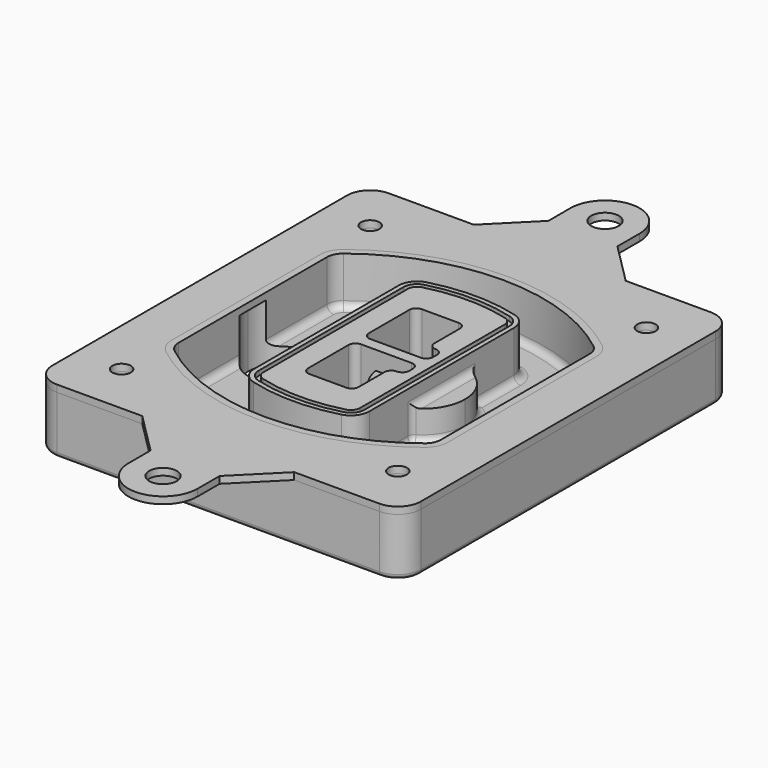
from build123d import *

# Parameters (mm, degrees)
F0_R      = 4
F1_DEPTH  = 25
F2_DEPTH  = 3
F3_DEPTH  = 18
F5_DEPTH  = 21
F6_DEPTH  = 2
F8_DEPTH  = 20
F9_DEPTH  = 16
F10_DEPTH = 25
F7_R      = 6
F7_R_2    = 4
F11_DEPTH = 6
F13_DEPTH = 9
F14_R     = 3
F15_R     = 2
F16_R     = 6
F16_R_2   = 4
F17_DEPTH = 3


with BuildPart() as f1:
    # F0 (on Top) → F1 (new body)
    with BuildSketch(Plane.XY):
        with BuildLine():
            ThreePointArc((14.05, 38.3825811321), (16.9789321881, 31.3115133202), (24.05, 28.3825811321))
            Line((24.05, 28.3825811321), (164.05, 28.3825811321))
            ThreePointArc((164.05, 28.3825811321), (171.1210678119, 31.3115133202), (174.05, 38.3825811321))
            Line((174.05, 38.3825811321), (174.05, 198.3825811321))
            ThreePointArc((174.05, 198.3825811321), (171.1210678119, 205.4536489439), (164.05, 208.3825811321))
            Line((164.05, 208.3825811321), (24.05, 208.3825811321))
            ThreePointArc((24.05, 208.3825811321), (16.9789321881, 205.4536489439), (14.05, 198.3825811321))
            Line((14.05, 198.3825811321), (14.05, 38.3825811321))
        make_face()
        with Locations((34.05, 50.8825811321)):
            Circle(F0_R, mode=Mode.SUBTRACT)
        with Locations((154.05, 50.8825811321)):
            Circle(F0_R, mode=Mode.SUBTRACT)
        with Locations((34.05, 185.8825811321)):
            Circle(F0_R, mode=Mode.SUBTRACT)
        with BuildLine():
            ThreePointArc((30.05, 158.6760234193), (31.4679615202, 164.8154295545), (35.4346153846, 169.7112011673))
            ThreePointArc((35.4346153846, 169.7112011673), (94.05, 189.8825811321), (152.6653846154, 169.7112011673))
            ThreePointArc((152.6653846154, 169.7112011673), (156.6320384798, 164.8154295545), (158.05, 158.6760234193))
            Line((158.05, 158.6760234193), (158.05, 78.0891388448))
            ThreePointArc((158.05, 78.0891388448), (156.6320384798, 71.9497327097), (152.6653846154, 67.0539610969))
            ThreePointArc((152.6653846154, 67.0539610969), (94.05, 46.8825811321), (35.4346153846, 67.0539610969))
            ThreePointArc((35.4346153846, 67.0539610969), (31.4679615202, 71.9497327097), (30.05, 78.0891388448))
            Line((30.05, 78.0891388448), (30.05, 158.6760234193))
        make_face(mode=Mode.SUBTRACT)
        with Locations((154.05, 185.8825811321)):
            Circle(F0_R, mode=Mode.SUBTRACT)
        with BuildLine():
            ThreePointArc((152.6653846154, 169.7112011673), (94.05, 189.8825811321), (35.4346153846, 169.7112011673))
            ThreePointArc((35.4346153846, 169.7112011673), (31.4679615202, 164.8154295545), (30.05, 158.6760234193))
            Line((30.05, 158.6760234193), (30.05, 78.0891388448))
            ThreePointArc((30.05, 78.0891388448), (31.4679615202, 71.9497327097), (35.4346153846, 67.0539610969))
            ThreePointArc((35.4346153846, 67.0539610969), (94.05, 46.8825811321), (152.6653846154, 67.0539610969))
            ThreePointArc((152.6653846154, 67.0539610969), (156.6320384798, 71.9497327097), (158.05, 78.0891388448))
            Line((158.05, 78.0891388448), (158.05, 158.6760234193))
            ThreePointArc((158.05, 158.6760234193), (156.6320384798, 164.8154295545), (152.6653846154, 169.7112011673))
        make_face()
        with BuildLine():
            Line((34.05, 78.0891388448), (34.05, 158.6760234193))
            ThreePointArc((34.05, 158.6760234193), (35.0628296573, 163.0613135158), (37.8961538462, 166.5582932393))
            ThreePointArc((37.8961538462, 166.5582932393), (94.05, 185.8825811321), (150.2038461538, 166.5582932393))
            ThreePointArc((150.2038461538, 166.5582932393), (153.0371703427, 163.0613135158), (154.05, 158.6760234193))
            Line((154.05, 158.6760234193), (154.05, 78.0891388448))
            ThreePointArc((154.05, 78.0891388448), (153.0371703427, 73.7038487483), (150.2038461538, 70.2068690248))
            ThreePointArc((150.2038461538, 70.2068690248), (94.05, 50.8825811321), (37.8961538462, 70.2068690248))
            ThreePointArc((37.8961538462, 70.2068690248), (35.0628296573, 73.7038487483), (34.05, 78.0891388448))
        make_face(mode=Mode.SUBTRACT)
        with BuildLine():
            ThreePointArc((37.8961538462, 166.5582932393), (35.0628296573, 163.0613135158), (34.05, 158.6760234193))
            Line((34.05, 158.6760234193), (34.05, 78.0891388448))
            ThreePointArc((34.05, 78.0891388448), (35.0628296573, 73.7038487483), (37.8961538462, 70.2068690248))
            ThreePointArc((37.8961538462, 70.2068690248), (94.05, 50.8825811321), (150.2038461538, 70.2068690248))
            ThreePointArc((150.2038461538, 70.2068690248), (153.0371703427, 73.7038487483), (154.05, 78.0891388448))
            Line((154.05, 78.0891388448), (154.05, 158.6760234193))
            ThreePointArc((154.05, 158.6760234193), (153.0371703427, 163.0613135158), (150.2038461538, 166.5582932393))
            ThreePointArc((150.2038461538, 166.5582932393), (94.05, 185.8825811321), (37.8961538462, 166.5582932393))
        make_face()
        with BuildLine():
            ThreePointArc((148.3576923077, 164.1936122933), (150.3410192399, 161.7457264869), (151.05, 158.6760234193))
            Line((151.05, 158.6760234193), (151.05, 78.0891388448))
            ThreePointArc((151.05, 78.0891388448), (150.3410192399, 75.0194357772), (148.3576923077, 72.5715499708))
            ThreePointArc((148.3576923077, 72.5715499708), (94.05, 53.8825811321), (39.7423076923, 72.5715499708))
            ThreePointArc((39.7423076923, 72.5715499708), (37.7589807601, 75.0194357772), (37.05, 78.0891388448))
            Line((37.05, 78.0891388448), (37.05, 158.6760234193))
            ThreePointArc((37.05, 158.6760234193), (37.7589807601, 161.7457264869), (39.7423076923, 164.1936122933))
            ThreePointArc((39.7423076923, 164.1936122933), (94.05, 182.8825811321), (148.3576923077, 164.1936122933))
        make_face(mode=Mode.SUBTRACT)
        with BuildLine():
            Line((151.05, 78.0891388448), (151.05, 158.6760234193))
            ThreePointArc((151.05, 158.6760234193), (150.3410192399, 161.7457264869), (148.3576923077, 164.1936122933))
            ThreePointArc((148.3576923077, 164.1936122933), (94.05, 182.8825811321), (39.7423076923, 164.1936122933))
            ThreePointArc((39.7423076923, 164.1936122933), (37.7589807601, 161.7457264869), (37.05, 158.6760234193))
            Line((37.05, 158.6760234193), (37.05, 78.0891388448))
            ThreePointArc((37.05, 78.0891388448), (37.7589807601, 75.0194357772), (39.7423076923, 72.5715499708))
            ThreePointArc((39.7423076923, 72.5715499708), (94.05, 53.8825811321), (148.3576923077, 72.5715499708))
            ThreePointArc((148.3576923077, 72.5715499708), (150.3410192399, 75.0194357772), (151.05, 78.0891388448))
        make_face()
    extrude(amount=-F1_DEPTH)

    # F0 (on Top) → F2 (join)
    with BuildSketch(Plane.XY):
        with BuildLine():
            ThreePointArc((37.8961538462, 166.5582932393), (35.0628296573, 163.0613135158), (34.05, 158.6760234193))
            Line((34.05, 158.6760234193), (34.05, 78.0891388448))
            ThreePointArc((34.05, 78.0891388448), (35.0628296573, 73.7038487483), (37.8961538462, 70.2068690248))
            ThreePointArc((37.8961538462, 70.2068690248), (94.05, 50.8825811321), (150.2038461538, 70.2068690248))
            ThreePointArc((150.2038461538, 70.2068690248), (153.0371703427, 73.7038487483), (154.05, 78.0891388448))
            Line((154.05, 78.0891388448), (154.05, 158.6760234193))
            ThreePointArc((154.05, 158.6760234193), (153.0371703427, 163.0613135158), (150.2038461538, 166.5582932393))
            ThreePointArc((150.2038461538, 166.5582932393), (94.05, 185.8825811321), (37.8961538462, 166.5582932393))
        make_face()
        with BuildLine():
            ThreePointArc((148.3576923077, 164.1936122933), (150.3410192399, 161.7457264869), (151.05, 158.6760234193))
            Line((151.05, 158.6760234193), (151.05, 78.0891388448))
            ThreePointArc((151.05, 78.0891388448), (150.3410192399, 75.0194357772), (148.3576923077, 72.5715499708))
            ThreePointArc((148.3576923077, 72.5715499708), (94.05, 53.8825811321), (39.7423076923, 72.5715499708))
            ThreePointArc((39.7423076923, 72.5715499708), (37.7589807601, 75.0194357772), (37.05, 78.0891388448))
            Line((37.05, 78.0891388448), (37.05, 158.6760234193))
            ThreePointArc((37.05, 158.6760234193), (37.7589807601, 161.7457264869), (39.7423076923, 164.1936122933))
            ThreePointArc((39.7423076923, 164.1936122933), (94.05, 182.8825811321), (148.3576923077, 164.1936122933))
        make_face(mode=Mode.SUBTRACT)
    extrude(amount=F2_DEPTH)

    # F0 (on Top) → F3 (cut)
    with BuildSketch(Plane.XY):
        with BuildLine():
            Line((151.05, 78.0891388448), (151.05, 158.6760234193))
            ThreePointArc((151.05, 158.6760234193), (150.3410192399, 161.7457264869), (148.3576923077, 164.1936122933))
            ThreePointArc((148.3576923077, 164.1936122933), (94.05, 182.8825811321), (39.7423076923, 164.1936122933))
            ThreePointArc((39.7423076923, 164.1936122933), (37.7589807601, 161.7457264869), (37.05, 158.6760234193))
            Line((37.05, 158.6760234193), (37.05, 78.0891388448))
            ThreePointArc((37.05, 78.0891388448), (37.7589807601, 75.0194357772), (39.7423076923, 72.5715499708))
            ThreePointArc((39.7423076923, 72.5715499708), (94.05, 53.8825811321), (148.3576923077, 72.5715499708))
            ThreePointArc((148.3576923077, 72.5715499708), (150.3410192399, 75.0194357772), (151.05, 78.0891388448))
        make_face()
    extrude(amount=-F3_DEPTH, mode=Mode.SUBTRACT)

    # F4 (on face) → F5 (join, through all)
    with BuildSketch(Plane.XY.offset(3)):
        with BuildLine():
            ThreePointArc((69.05, 79.13605345), (70.6988454002, 74.2716074128), (74.9657088123, 71.4123412437))
            ThreePointArc((74.9657088123, 71.4123412437), (94.05, 68.8825811321), (113.1342911877, 71.4123412437))
            ThreePointArc((113.1342911877, 71.4123412437), (117.4011545998, 74.2716074128), (119.05, 79.13605345))
            Line((119.05, 79.13605345), (119.05, 157.6291088141))
            ThreePointArc((119.05, 157.6291088141), (117.4011545998, 162.4935548514), (113.1342911877, 165.3528210204))
            ThreePointArc((113.1342911877, 165.3528210204), (94.05, 167.8825811321), (74.9657088123, 165.3528210204))
            ThreePointArc((74.9657088123, 165.3528210204), (70.6988454002, 162.4935548514), (69.05, 157.6291088141))
            Line((69.05, 157.6291088141), (69.05, 79.13605345))
        make_face()
        with BuildLine():
            ThreePointArc((112.6132183908, 163.4218929688), (115.8133659499, 161.2774433421), (117.05, 157.6291088141))
            Line((117.05, 157.6291088141), (117.05, 79.13605345))
            ThreePointArc((117.05, 79.13605345), (115.8133659499, 75.4877189221), (112.6132183908, 73.3432692953))
            ThreePointArc((112.6132183908, 73.3432692953), (94.05, 70.8825811321), (75.4867816092, 73.3432692953))
            ThreePointArc((75.4867816092, 73.3432692953), (72.2866340501, 75.4877189221), (71.05, 79.13605345))
            Line((71.05, 79.13605345), (71.05, 157.6291088141))
            ThreePointArc((71.05, 157.6291088141), (72.2866340501, 161.2774433421), (75.4867816092, 163.4218929688))
            ThreePointArc((75.4867816092, 163.4218929688), (94.05, 165.8825811321), (112.6132183908, 163.4218929688))
        make_face(mode=Mode.SUBTRACT)
        with BuildLine():
            Line((117.05, 79.13605345), (117.05, 157.6291088141))
            ThreePointArc((117.05, 157.6291088141), (115.8133659499, 161.2774433421), (112.6132183908, 163.4218929688))
            ThreePointArc((112.6132183908, 163.4218929688), (94.05, 165.8825811321), (75.4867816092, 163.4218929688))
            ThreePointArc((75.4867816092, 163.4218929688), (72.2866340501, 161.2774433421), (71.05, 157.6291088141))
            Line((71.05, 157.6291088141), (71.05, 79.13605345))
            ThreePointArc((71.05, 79.13605345), (72.2866340501, 75.4877189221), (75.4867816092, 73.3432692953))
            ThreePointArc((75.4867816092, 73.3432692953), (94.05, 70.8825811321), (112.6132183908, 73.3432692953))
            ThreePointArc((112.6132183908, 73.3432692953), (115.8133659499, 75.4877189221), (117.05, 79.13605345))
        make_face()
        with BuildLine():
            ThreePointArc((112.0921455939, 161.4909649173), (114.2255772999, 160.0613318328), (115.05, 157.6291088141))
            Line((115.05, 157.6291088141), (115.05, 79.13605345))
            ThreePointArc((115.05, 79.13605345), (114.2255772999, 76.7038304314), (112.0921455939, 75.2741973469))
            ThreePointArc((112.0921455939, 75.2741973469), (94.05, 72.8825811321), (76.0078544061, 75.2741973469))
            ThreePointArc((76.0078544061, 75.2741973469), (73.8744227001, 76.7038304314), (73.05, 79.13605345))
            Line((73.05, 79.13605345), (73.05, 157.6291088141))
            ThreePointArc((73.05, 157.6291088141), (73.8744227001, 160.0613318328), (76.0078544061, 161.4909649173))
            ThreePointArc((76.0078544061, 161.4909649173), (94.05, 163.8825811321), (112.0921455939, 161.4909649173))
        make_face(mode=Mode.SUBTRACT)
        with BuildLine():
            Line((115.05, 79.13605345), (115.05, 157.6291088141))
            ThreePointArc((115.05, 157.6291088141), (114.2255772999, 160.0613318328), (112.0921455939, 161.4909649173))
            ThreePointArc((112.0921455939, 161.4909649173), (94.05, 163.8825811321), (76.0078544061, 161.4909649173))
            ThreePointArc((76.0078544061, 161.4909649173), (73.8744227001, 160.0613318328), (73.05, 157.6291088141))
            Line((73.05, 157.6291088141), (73.05, 79.13605345))
            ThreePointArc((73.05, 79.13605345), (73.8744227001, 76.7038304314), (76.0078544061, 75.2741973469))
            ThreePointArc((76.0078544061, 75.2741973469), (94.05, 72.8825811321), (112.0921455939, 75.2741973469))
            ThreePointArc((112.0921455939, 75.2741973469), (114.2255772999, 76.7038304314), (115.05, 79.13605345))
        make_face()
        with BuildLine():
            Line((86.05, 115.8825811321), (108.05, 115.8825811321))
            ThreePointArc((108.05, 115.8825811321), (110.1713203436, 115.0039014756), (111.05, 112.8825811321))
            Line((111.05, 112.8825811321), (111.05, 110.8825811321))
            ThreePointArc((111.05, 110.8825811321), (110.1713203436, 108.7612607885), (108.05, 107.8825811321))
            ThreePointArc((108.05, 107.8825811321), (105.9286796564, 107.0039014756), (105.05, 104.8825811321))
            Line((105.05, 104.8825811321), (105.05, 90.8825811321))
            ThreePointArc((105.05, 90.8825811321), (104.1713203436, 88.7612607885), (102.05, 87.8825811321))
            Line((102.05, 87.8825811321), (86.05, 87.8825811321))
            ThreePointArc((86.05, 87.8825811321), (83.9286796564, 88.7612607885), (83.05, 90.8825811321))
            Line((83.05, 90.8825811321), (83.05, 112.8825811321))
            ThreePointArc((83.05, 112.8825811321), (83.9286796564, 115.0039014756), (86.05, 115.8825811321))
        make_face(mode=Mode.SUBTRACT)
        with BuildLine():
            ThreePointArc((86.05, 120.8825811321), (83.9286796564, 121.7612607885), (83.05, 123.8825811321))
            Line((83.05, 123.8825811321), (83.05, 145.8825811321))
            ThreePointArc((83.05, 145.8825811321), (83.9286796564, 148.0039014756), (86.05, 148.8825811321))
            Line((86.05, 148.8825811321), (102.05, 148.8825811321))
            ThreePointArc((102.05, 148.8825811321), (104.1713203436, 148.0039014756), (105.05, 145.8825811321))
            Line((105.05, 145.8825811321), (105.05, 131.8825811321))
            ThreePointArc((105.05, 131.8825811321), (105.9286796564, 129.7612607885), (108.05, 128.8825811321))
            ThreePointArc((108.05, 128.8825811321), (110.1713203436, 128.0039014756), (111.05, 125.8825811321))
            Line((111.05, 125.8825811321), (111.05, 123.8825811321))
            ThreePointArc((111.05, 123.8825811321), (110.1713203436, 121.7612607885), (108.05, 120.8825811321))
            Line((108.05, 120.8825811321), (86.05, 120.8825811321))
        make_face(mode=Mode.SUBTRACT)
    extrude(amount=-F5_DEPTH)

    # F4 (on face) → F6 (cut)
    with BuildSketch(Plane.XY.offset(3)):
        with BuildLine():
            Line((117.05, 79.13605345), (117.05, 157.6291088141))
            ThreePointArc((117.05, 157.6291088141), (115.8133659499, 161.2774433421), (112.6132183908, 163.4218929688))
            ThreePointArc((112.6132183908, 163.4218929688), (94.05, 165.8825811321), (75.4867816092, 163.4218929688))
            ThreePointArc((75.4867816092, 163.4218929688), (72.2866340501, 161.2774433421), (71.05, 157.6291088141))
            Line((71.05, 157.6291088141), (71.05, 79.13605345))
            ThreePointArc((71.05, 79.13605345), (72.2866340501, 75.4877189221), (75.4867816092, 73.3432692953))
            ThreePointArc((75.4867816092, 73.3432692953), (94.05, 70.8825811321), (112.6132183908, 73.3432692953))
            ThreePointArc((112.6132183908, 73.3432692953), (115.8133659499, 75.4877189221), (117.05, 79.13605345))
        make_face()
        with BuildLine():
            ThreePointArc((112.0921455939, 161.4909649173), (114.2255772999, 160.0613318328), (115.05, 157.6291088141))
            Line((115.05, 157.6291088141), (115.05, 79.13605345))
            ThreePointArc((115.05, 79.13605345), (114.2255772999, 76.7038304314), (112.0921455939, 75.2741973469))
            ThreePointArc((112.0921455939, 75.2741973469), (94.05, 72.8825811321), (76.0078544061, 75.2741973469))
            ThreePointArc((76.0078544061, 75.2741973469), (73.8744227001, 76.7038304314), (73.05, 79.13605345))
            Line((73.05, 79.13605345), (73.05, 157.6291088141))
            ThreePointArc((73.05, 157.6291088141), (73.8744227001, 160.0613318328), (76.0078544061, 161.4909649173))
            ThreePointArc((76.0078544061, 161.4909649173), (94.05, 163.8825811321), (112.0921455939, 161.4909649173))
        make_face(mode=Mode.SUBTRACT)
    extrude(amount=-F6_DEPTH, mode=Mode.SUBTRACT)

    # F7 (on face) → F8 (join)
    with BuildSketch(Plane(origin=(0, 0, -25), x_dir=(1, 0, 0), z_dir=(0, 0, -1))):
        with BuildLine():
            ThreePointArc((97.33842436, -118.3825811321), (110.8067035675, -104.9143019245), (124.274982775, -118.3825811321))
            Line((124.274982775, -118.3825811321), (129.274982775, -118.3825811321))
            ThreePointArc((129.274982775, -118.3825811321), (110.8067035675, -99.9143019245), (92.33842436, -118.3825811321))
            Line((92.33842436, -118.3825811321), (97.33842436, -118.3825811321))
        make_face()
        with BuildLine():
            Line((97.33842436, -118.3825811321), (124.274982775, -118.3825811321))
            ThreePointArc((124.274982775, -118.3825811321), (110.8067035675, -104.9143019245), (97.33842436, -118.3825811321))
        make_face()
        with BuildLine():
            ThreePointArc((97.33842436, -118.3825811321), (110.8067035675, -131.8508603396), (124.274982775, -118.3825811321))
            Line((124.274982775, -118.3825811321), (97.33842436, -118.3825811321))
        make_face()
        with BuildLine():
            Line((129.274982775, -118.3825811321), (124.274982775, -118.3825811321))
            ThreePointArc((124.274982775, -118.3825811321), (110.8067035675, -131.8508603396), (97.33842436, -118.3825811321))
            Line((97.33842436, -118.3825811321), (92.33842436, -118.3825811321))
            ThreePointArc((92.33842436, -118.3825811321), (110.8067035675, -136.8508603396), (129.274982775, -118.3825811321))
        make_face()
    extrude(amount=-F8_DEPTH)

    # F7 (on face) → F9 (cut)
    with BuildSketch(Plane(origin=(0, 0, -25), x_dir=(1, 0, 0), z_dir=(0, 0, -1))):
        with BuildLine():
            Line((97.33842436, -118.3825811321), (124.274982775, -118.3825811321))
            ThreePointArc((124.274982775, -118.3825811321), (110.8067035675, -104.9143019245), (97.33842436, -118.3825811321))
        make_face()
        with BuildLine():
            ThreePointArc((97.33842436, -118.3825811321), (110.8067035675, -131.8508603396), (124.274982775, -118.3825811321))
            Line((124.274982775, -118.3825811321), (97.33842436, -118.3825811321))
        make_face()
    extrude(amount=-F9_DEPTH, mode=Mode.SUBTRACT)

    # F7 (on face) → F10 (cut)
    with BuildSketch(Plane(origin=(0, 0, -25), x_dir=(1, 0, 0), z_dir=(0, 0, -1))):
        with BuildLine():
            Line((35.0181770675, -118.3825811321), (61.9547354825, -118.3825811321))
            ThreePointArc((61.9547354825, -118.3825811321), (48.486456275, -104.9143019245), (35.0181770675, -118.3825811321))
        make_face()
        with BuildLine():
            ThreePointArc((35.0181770675, -118.3825811321), (48.486456275, -131.8508603396), (61.9547354825, -118.3825811321))
            Line((61.9547354825, -118.3825811321), (35.0181770675, -118.3825811321))
        make_face()
    extrude(amount=-F10_DEPTH, mode=Mode.SUBTRACT)

    # F7 (on face) → F11 (cut)
    with BuildSketch(Plane(origin=(0, 0, -25), x_dir=(1, 0, 0), z_dir=(0, 0, -1))):
        with Locations((154.05, -185.8825811321)):
            Circle(F7_R)
        with Locations((154.05, -185.8825811321)):
            Circle(F7_R_2, mode=Mode.SUBTRACT)
        with Locations((154.05, -185.8825811321)):
            Circle(F7_R)
        with Locations((154.05, -185.8825811321)):
            Circle(F7_R_2, mode=Mode.SUBTRACT)
        with Locations((34.05, -185.8825811321)):
            Circle(F7_R)
        with Locations((34.05, -185.8825811321)):
            Circle(F7_R_2, mode=Mode.SUBTRACT)
        with Locations((34.05, -185.8825811321)):
            Circle(F7_R)
        with Locations((34.05, -185.8825811321)):
            Circle(F7_R_2, mode=Mode.SUBTRACT)
        with Locations((34.05, -50.8825811321)):
            Circle(F7_R)
        with Locations((34.05, -50.8825811321)):
            Circle(F7_R_2, mode=Mode.SUBTRACT)
        with Locations((34.05, -50.8825811321)):
            Circle(F7_R)
        with Locations((34.05, -50.8825811321)):
            Circle(F7_R_2, mode=Mode.SUBTRACT)
        with Locations((154.05, -50.8825811321)):
            Circle(F7_R)
        with Locations((154.05, -50.8825811321)):
            Circle(F7_R_2, mode=Mode.SUBTRACT)
        with Locations((154.05, -50.8825811321)):
            Circle(F7_R)
        with Locations((154.05, -50.8825811321)):
            Circle(F7_R_2, mode=Mode.SUBTRACT)
    extrude(amount=-F11_DEPTH, mode=Mode.SUBTRACT)

    # F12 (on face) → F13 (cut, through all)
    with BuildSketch(Plane(origin=(0, 0, -9), x_dir=(1, 0, 0), z_dir=(0, 0, -1))):
        with BuildLine():
            Line((105.05, -104.8825811321), (105.05, -100.8344273567))
            ThreePointArc((105.05, -100.8344273567), (96.6196536419, -106.5586667507), (92.5084157545, -115.8825811321))
            Line((92.5084157545, -115.8825811321), (97.5724848595, -115.8825811321))
            ThreePointArc((97.5724848595, -115.8825811321), (100.2357188154, -110.0369939039), (105.3036447004, -106.0898642673))
            ThreePointArc((105.3036447004, -106.0898642673), (105.1140958889, -105.4994012441), (105.05, -104.8825811321))
        make_face()
        with BuildLine():
            ThreePointArc((105.3036447004, -130.6752979968), (100.2357188154, -126.7281683602), (97.5724848595, -120.8825811321))
            Line((97.5724848595, -120.8825811321), (92.5084157545, -120.8825811321))
            ThreePointArc((92.5084157545, -120.8825811321), (96.6196536419, -130.2064955134), (105.05, -135.9307349074))
            Line((105.05, -135.9307349074), (105.05, -131.8825811321))
            ThreePointArc((105.05, -131.8825811321), (105.1140958889, -131.26576102), (105.3036447004, -130.6752979968))
        make_face()
        with BuildLine():
            ThreePointArc((105.3036447004, -106.0898642673), (100.2357188154, -110.0369939039), (97.5724848595, -115.8825811321))
            Line((97.5724848595, -115.8825811321), (108.05, -115.8825811321))
            ThreePointArc((108.05, -115.8825811321), (110.1713203436, -115.0039014756), (111.05, -112.8825811321))
            Line((111.05, -112.8825811321), (111.05, -110.8825811321))
            ThreePointArc((111.05, -110.8825811321), (110.1713203436, -108.7612607885), (108.05, -107.8825811321))
            ThreePointArc((108.05, -107.8825811321), (106.4101599782, -107.3947365219), (105.3036447004, -106.0898642673))
        make_face()
        with BuildLine():
            Line((108.05, -120.8825811321), (97.5724848595, -120.8825811321))
            ThreePointArc((97.5724848595, -120.8825811321), (100.2357188154, -126.7281683602), (105.3036447004, -130.6752979968))
            ThreePointArc((105.3036447004, -130.6752979968), (106.4101599782, -129.3704257422), (108.05, -128.8825811321))
            ThreePointArc((108.05, -128.8825811321), (110.1713203436, -128.0039014756), (111.05, -125.8825811321))
            Line((111.05, -125.8825811321), (111.05, -123.8825811321))
            ThreePointArc((111.05, -123.8825811321), (110.1713203436, -121.7612607885), (108.05, -120.8825811321))
        make_face()
    extrude(amount=F13_DEPTH, mode=Mode.SUBTRACT)

    # F14
    f14_edges = [f1.edges().sort_by_distance(p)[0] for p in [
        (37.05, 94.679105, -18),
        (37.05, 142.086057, -18),
        (119.05, 118.382581, -5),
        (119.05, 134.909087, -11.5),
        (119.05, 101.856075, -11.5),
        (119.05, 90.496064, -18),
        (129.274983, 118.382581, -18),
    ]]
    fillet(f14_edges, radius=F14_R)

    # F15
    f15_edges = [f1.edges().sort_by_distance(p)[0] for p in [
        (94.05, 28.382581, -25),
    ]]
    fillet(f15_edges, radius=F15_R)


with BuildPart() as f17:
    # F16 (on face) → F17 (new body, through all)
    with BuildSketch(Plane.XY):
        with BuildLine():
            Line((109.05, 226.3825811321), (109.05, 238.3825811321))
            ThreePointArc((109.05, 238.3825811321), (94.05, 253.3825811321), (79.05, 238.3825811321))
            Line((79.05, 238.3825811321), (79.05, 226.3825811321))
            Line((79.05, 226.3825811321), (61.05, 208.3825811321))
            Line((61.05, 208.3825811321), (127.05, 208.3825811321))
            Line((127.05, 208.3825811321), (109.05, 226.3825811321))
        make_face()
        with Locations((94.05, 238.3825811321)):
            Circle(F16_R, mode=Mode.SUBTRACT)
        with BuildLine():
            Line((164.05, 208.3825811321), (127.05, 208.3825811321))
            Line((127.05, 208.3825811321), (61.05, 208.3825811321))
            Line((61.05, 208.3825811321), (24.05, 208.3825811321))
            ThreePointArc((24.05, 208.3825811321), (16.9789321881, 205.4536489439), (14.05, 198.3825811321))
            Line((14.05, 198.3825811321), (14.05, 38.3825811321))
            ThreePointArc((14.05, 38.3825811321), (16.9789321881, 31.3115133202), (24.05, 28.3825811321))
            Line((24.05, 28.3825811321), (61.05, 28.3825811321))
            Line((61.05, 28.3825811321), (127.05, 28.3825811321))
            Line((127.05, 28.3825811321), (164.05, 28.3825811321))
            ThreePointArc((164.05, 28.3825811321), (171.1210678119, 31.3115133202), (174.05, 38.3825811321))
            Line((174.05, 38.3825811321), (174.05, 198.3825811321))
            ThreePointArc((174.05, 198.3825811321), (171.1210678119, 205.4536489439), (164.05, 208.3825811321))
        make_face()
        with Locations((34.05, 50.8825811321)):
            Circle(F16_R_2, mode=Mode.SUBTRACT)
        with Locations((154.05, 50.8825811321)):
            Circle(F16_R_2, mode=Mode.SUBTRACT)
        with Locations((34.05, 185.8825811321)):
            Circle(F16_R_2, mode=Mode.SUBTRACT)
        with BuildLine():
            ThreePointArc((34.05, 158.6760234193), (35.0628296573, 163.0613135158), (37.8961538462, 166.5582932393))
            ThreePointArc((37.8961538462, 166.5582932393), (94.05, 185.8825811321), (150.2038461538, 166.5582932393))
            ThreePointArc((150.2038461538, 166.5582932393), (153.0371703427, 163.0613135158), (154.05, 158.6760234193))
            Line((154.05, 158.6760234193), (154.05, 78.0891388448))
            ThreePointArc((154.05, 78.0891388448), (153.0371703427, 73.7038487483), (150.2038461538, 70.2068690248))
            ThreePointArc((150.2038461538, 70.2068690248), (94.05, 50.8825811321), (37.8961538462, 70.2068690248))
            ThreePointArc((37.8961538462, 70.2068690248), (35.0628296573, 73.7038487483), (34.05, 78.0891388448))
            Line((34.05, 78.0891388448), (34.05, 158.6760234193))
        make_face(mode=Mode.SUBTRACT)
        with Locations((154.05, 185.8825811321)):
            Circle(F16_R_2, mode=Mode.SUBTRACT)
        with BuildLine():
            Line((109.05, 10.3825811321), (127.05, 28.3825811321))
            Line((127.05, 28.3825811321), (61.05, 28.3825811321))
            Line((61.05, 28.3825811321), (79.05, 10.3825811321))
            Line((79.05, 10.3825811321), (79.05, -1.6174188679))
            ThreePointArc((79.05, -1.6174188679), (94.05, -16.6174188679), (109.05, -1.6174188679))
            Line((109.05, -1.6174188679), (109.05, 10.3825811321))
        make_face()
        with Locations((94.05, -1.6174188679)):
            Circle(F16_R, mode=Mode.SUBTRACT)
    extrude(amount=F17_DEPTH)


solid = Compound([f1.part, f17.part])
